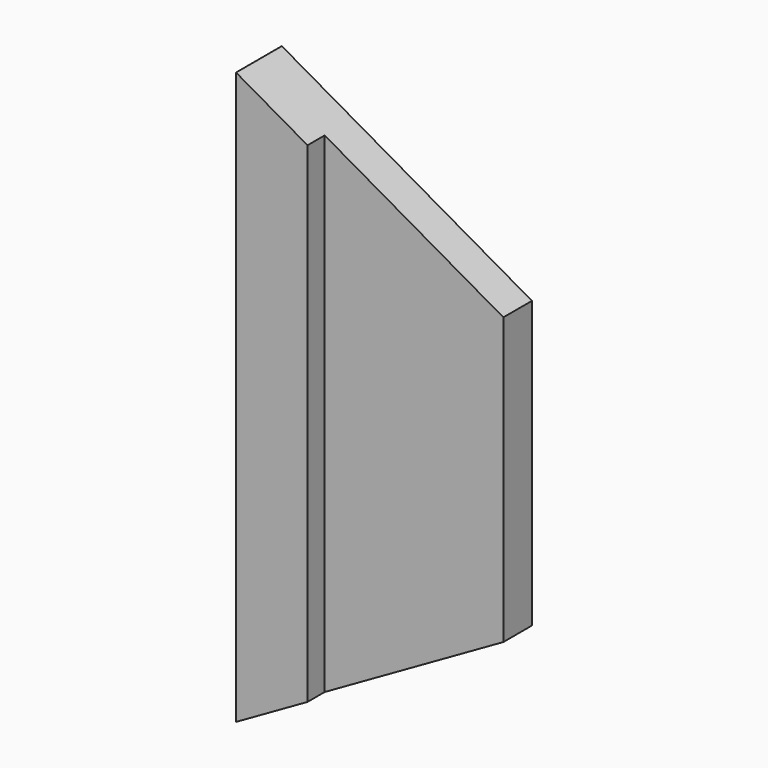
from build123d import *

# Parameters (mm, degrees)
SKETCH043_W      = 6
SKETCH043_H      = 16
EXTRUDE052_DEPTH = 1.6
EXTRUDE_DEPTH    = 1.6


with BuildPart() as extrude052:
    # Sketch043 → Extrude052 (new body)
    with BuildSketch(Plane.XZ.offset(-4.3)):
        with Locations((35, 12)):
            Rectangle(SKETCH043_W, SKETCH043_H)
    extrude(amount=EXTRUDE052_DEPTH)


with BuildPart() as switch_connector:
    # Sketch → Extrude (new body)
    with BuildSketch(Plane.XZ.offset(-5.3)):
        Polygon((37, 16), (37, 8), (30, 4), (30, 20), align=None)
    extrude(amount=EXTRUDE_DEPTH)

    # Cut028: cut Extrude052
    add(extrude052.part, mode=Mode.SUBTRACT)


solid = switch_connector.part
